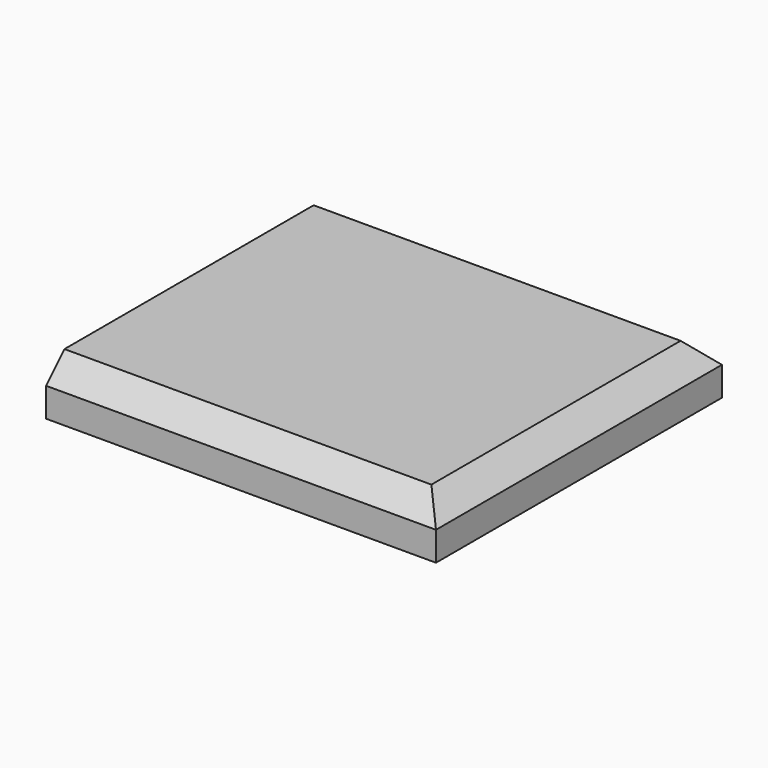
from build123d import *

# Parameters (mm, degrees)
BOX035_W               = 117
BOX035_H               = 104
BOX035_DEPTH           = 14
CHAMFER004_SIZE        = 6.07
BOX034_W               = 120
BOX034_H               = 110
BOX034_DEPTH           = 16
CHAMFER003_SIZE        = 7.07
CUT032_PLACEMENT_ANGLE = 180


with BuildPart() as chamfer004:
    # Box035 → Box035 (new body)
    with BuildSketch(Plane(origin=(0, 3, 2), x_dir=(1, 0, 0), z_dir=(0, 0, 1))):
        with Locations((58.5, 52)):
            Rectangle(BOX035_W, BOX035_H)
    extrude(amount=BOX035_DEPTH)

    # Chamfer004
    chamfer004_edges = [chamfer004.edges().sort_by_distance(p)[0] for p in [
        (117, 55, 2),
        (58.5, 3, 2),
        (58.5, 107, 2),
    ]]
    chamfer(chamfer004_edges, length=CHAMFER004_SIZE)


with BuildPart() as deckel_cut_basis:
    # Box034 → Box034 (new body)
    with BuildSketch(Plane.XY):
        with Locations((60, 55)):
            Rectangle(BOX034_W, BOX034_H)
    extrude(amount=BOX034_DEPTH)

    # Chamfer003
    chamfer003_edges = [deckel_cut_basis.edges().sort_by_distance(p)[0] for p in [
        (120, 55, 0),
        (60, 0, 0),
        (60, 110, 0),
    ]]
    chamfer(chamfer003_edges, length=CHAMFER003_SIZE)

    # Cut032: cut Chamfer004
    add(chamfer004.part, mode=Mode.SUBTRACT)


with BuildPart() as deckel_cut_basis_1:
    # Cut032 placement: moved
    add(deckel_cut_basis.part.rotate(Axis((0, 0, 0), (1, 0, 0)), CUT032_PLACEMENT_ANGLE))


with BuildPart() as obj1:
    # mirror: instance of Deckel_Cut_Basis
    add(deckel_cut_basis_1.part.mirror(Plane(origin=(0, 0, 0), x_dir=(1, 0, 0), z_dir=(0, 1, 0))))


with BuildPart() as obj1_1:
    # mirror placement: moved
    add(obj1.part.moved(Location((0, 0, 16))))


solid = obj1_1.part
